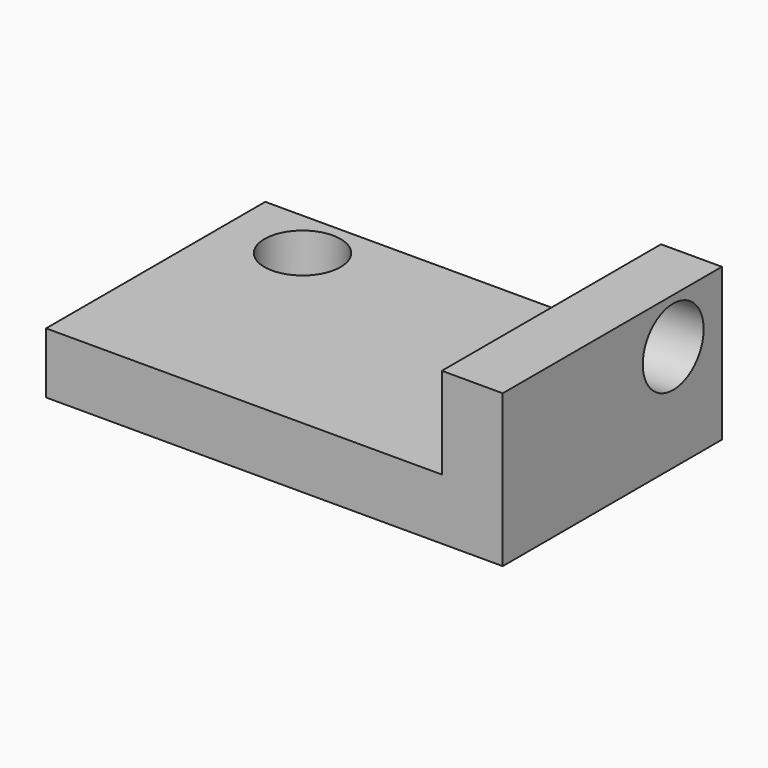
from build123d import *

# Parameters (mm, degrees)
F0_W     = 15
F0_H     = 9
F0_R     = 1.25
F2_DEPTH = 2
F1_W     = 2
F1_H     = 9
F3_DEPTH = 5
F4_R     = 1.25
F5_DEPTH = 25


with BuildPart() as f2:
    # F0 (on Top) → F2 (new body)
    with BuildSketch(Plane.XY):
        with Locations((7.5, 4.5)):
            Rectangle(F0_W, F0_H)
        with Locations((2.522875, 7.376701)):
            Circle(F0_R, mode=Mode.SUBTRACT)
    extrude(amount=F2_DEPTH)

    # F1 (on Top) → F3 (join)
    with BuildSketch(Plane.XY):
        with Locations((14, 4.5)):
            Rectangle(F1_W, F1_H)
    extrude(amount=F3_DEPTH)

    # F4 (on face) → F5 (cut)
    with BuildSketch(Plane(origin=(13, 0, 0), x_dir=(0, -1, 0), z_dir=(-1, 0, 0))):
        with Locations((-7, 3.5)):
            Circle(F4_R)
    extrude(amount=-F5_DEPTH, mode=Mode.SUBTRACT)


solid = f2.part
